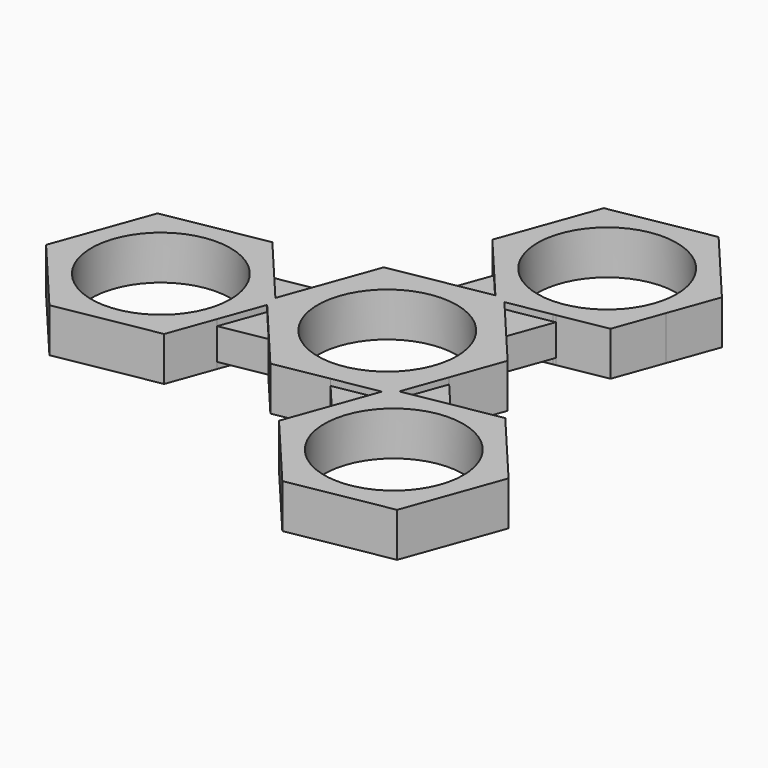
from build123d import *

# Parameters (mm, degrees)
F0_R     = 11.05
F1_DEPTH = 3.5
F2_DEPTH = 2.5


with BuildPart() as f1:
    # F0 (on Top) → F1 (new body, symmetric)
    with BuildSketch(Plane.XY):
        with BuildLine():
            Line((16.4067340595, 45.3467654298), (8.4209065052, 43.9228967168))
            ThreePointArc((8.4209065052, 43.9228967168), (15.6672457553, 43.3028857057), (21.6327540042, 39.1427706216))
            Line((21.6327540042, 39.1427706216), (16.4067340595, 45.3467654298))
        make_face()
        with BuildLine():
            Line((0.4350802259, 42.4990282311), (-2.3247269809, 34.8711645999))
            ThreePointArc((-2.3247269809, 34.8711645999), (1.8353876304, 40.8366725376), (8.4209065052, 43.9228967168))
            Line((8.4209065052, 43.9228967168), (0.4350802259, 42.4990282311))
        make_face()
        with BuildLine():
            ThreePointArc((24.9371199001, 30.0910388701), (24.7259953173, 27.6645131258), (24.0989665638, 25.3109125396))
            Line((24.0989665638, 25.3109125396), (26.8587737337, 32.9387760688))
            Line((26.8587737337, 32.9387760688), (21.6327540042, 39.1427706216))
            ThreePointArc((21.6327540042, 39.1427706216), (24.0852004265, 34.9090436873), (24.9371199001, 30.0910388701))
        make_face()
        with BuildLine():
            Line((-5.0845339335, 27.2433016714), (-0.112226606, 21.3404981668))
            Line((-0.112226606, 21.3404981668), (-0.1100221461, 21.3465910994))
            ThreePointArc((-0.1100221461, 21.3465910994), (-2.9782076587, 27.8205341493), (-2.3247269809, 34.8711645999))
            Line((-2.3247269809, 34.8711645999), (-5.0845339335, 27.2433016714))
        make_face()
        with BuildLine():
            Line((13.7432325819, 16.334399733), (13.741028122, 16.3283068004))
            Line((13.741028122, 16.3283068004), (21.3391595743, 17.6830495091))
            Line((21.3391595743, 17.6830495091), (24.0989665638, 25.3109125396))
            ThreePointArc((24.0989665638, 25.3109125396), (20.0897974955, 19.474390384), (13.7432325819, 16.334399733))
        make_face()
        with BuildLine():
            Line((-0.112226606, 21.3404981668), (0.1414857049, 21.0393072268))
            ThreePointArc((0.1414857049, 21.0393072268), (0.0146461468, 21.1920605869), (-0.1100221461, 21.3465910994))
            Line((-0.1100221461, 21.3465910994), (-0.112226606, 21.3404981668))
        make_face()
        with BuildLine():
            ThreePointArc((13.7432325819, 16.334399733), (13.5485483413, 16.2954128005), (13.3533326046, 16.2591809003))
            Line((13.3533326046, 16.2591809003), (13.741028122, 16.3283068004))
            Line((13.741028122, 16.3283068004), (13.7432325819, 16.334399733))
        make_face()
        Polygon((18.5375268448, -10.5730579916), (11.3795390219, -11.8493233304), (10.9594646934, -13.0103717128), (9.743930135, -13.227100864), (7.2702144289, -20.064232828), (4.6443903041, -27.3217790413), (15.0964299783, -39.7297684023), (31.0680838119, -36.8820312036), (36.5876979713, -21.6263046439), (26.1356582971, -9.2183152829), align=None)
        with Locations((20.6160441377, -24.4740418426)):
            Circle(F0_R, mode=Mode.SUBTRACT)
        Polygon((-16.7470447626, -2.98598898), (-16.3269704341, -1.8249405976), (-21.0112425509, 3.7359260276), (-25.9835498784, 9.6387295322), (-41.955203712, 6.7909923335), (-47.4748178714, -8.4647342262), (-37.0227781972, -20.8727235872), (-21.0511243636, -18.0249863885), (-18.4253002388, -10.7674401752), (-15.9515845328, -3.9303082112), align=None)
        with Locations((-31.5031640378, -5.6169970275)):
            Circle(F0_R, mode=Mode.SUBTRACT)
        with BuildLine():
            ThreePointArc((0.1414857049, 21.0393072268), (2.850394978, 18.5665626335), (6.106993819, 16.8791921162))
            ThreePointArc((6.106993819, 16.8791921162), (9.6893501995, 16.092187212), (13.3533326046, 16.2591809003))
            ThreePointArc((13.3533326046, 16.2591809003), (13.5485483413, 16.2954128005), (13.7432325819, 16.334399733))
            ThreePointArc((13.7432325819, 16.334399733), (20.0897974955, 19.474390384), (24.0989665638, 25.3109125396))
            ThreePointArc((24.0989665638, 25.3109125396), (24.7259953173, 27.6645131258), (24.9371199001, 30.0910388701))
            ThreePointArc((24.9371199001, 30.0910388701), (24.0852004265, 34.9090436873), (21.6327540042, 39.1427706216))
            ThreePointArc((21.6327540042, 39.1427706216), (15.6672457553, 43.3028857057), (8.4209065052, 43.9228967168))
            ThreePointArc((8.4209065052, 43.9228967168), (1.8353876304, 40.8366725376), (-2.3247269809, 34.8711645999))
            ThreePointArc((-2.3247269809, 34.8711645999), (-2.9782076587, 27.8205341493), (-0.1100221461, 21.3465910994))
            ThreePointArc((-0.1100221461, 21.3465910994), (0.0146461468, 21.1920605869), (0.1414857049, 21.0393072268))
        make_face()
        with BuildLine():
            ThreePointArc((21.9371199001, 30.0910388701), (17.2337915702, 21.0454731767), (7.1276613096, 19.7002270103))
            ThreePointArc((7.1276613096, 19.7002270103), (4.5404482301, 39.1366045634), (21.9371199001, 30.0910388701))
        make_face(mode=Mode.SUBTRACT)
        Polygon((6.5830402991, 15.0520414616), (5.3675057407, 14.8353123104), (4.5720455108, 15.7796315416), (-2.5859423121, 14.5033662028), (-10.9594646934, 13.0103717128), (-13.853254728, 5.0121913664), (-16.3269704341, -1.8249405976), (-15.5315102042, -2.7692598288), (-15.9515845328, -3.9303082112), (-11.2673124159, -9.4911748364), (-5.7875800692, -15.9963606927), (2.5859423121, -14.5033662028), (9.743930135, -13.227100864), (10.1640044635, -12.0660524816), (11.3795390219, -11.8493233304), (13.853254728, -5.0121913664), (16.7470447626, 2.98598898), (11.2673124159, 9.4911748364), align=None)
        with BuildLine():
            ThreePointArc((3.7594585905, 10.3908118598), (9.0455656933, 6.3466716701), (11.05, 0))
            ThreePointArc((11.05, 0), (-9.0455656933, -6.3466716701), (3.7594585905, 10.3908118598))
        make_face(mode=Mode.SUBTRACT)
        with BuildLine():
            Line((6.106993819, 16.8791921162), (5.7875800692, 15.9963606927))
            Line((5.7875800692, 15.9963606927), (6.5830402991, 15.0520414616))
            Line((6.5830402991, 15.0520414616), (13.3533326046, 16.2591809003))
            ThreePointArc((13.3533326046, 16.2591809003), (9.6893501995, 16.092187212), (6.106993819, 16.8791921162))
        make_face()
        with BuildLine():
            Line((4.5720455108, 15.7796315416), (5.7875800692, 15.9963606927))
            Line((5.7875800692, 15.9963606927), (6.106993819, 16.8791921162))
            ThreePointArc((6.106993819, 16.8791921162), (2.850394978, 18.5665626335), (0.1414857049, 21.0393072268))
            Line((0.1414857049, 21.0393072268), (4.5720455108, 15.7796315416))
        make_face()
        Polygon((4.5720455108, 15.7796315416), (5.3675057407, 14.8353123104), (5.7875800692, 15.9963606927), align=None)
        Polygon((5.7875800692, 15.9963606927), (5.3675057407, 14.8353123104), (6.5830402991, 15.0520414616), align=None)
        Polygon((10.9594646934, -13.0103717128), (11.3795390219, -11.8493233304), (10.1640044635, -12.0660524816), (9.743930135, -13.227100864), align=None)
        Polygon((-15.5315102042, -2.7692598288), (-16.3269704341, -1.8249405976), (-16.7470447626, -2.98598898), (-15.9515845328, -3.9303082112), align=None)
    extrude(amount=F1_DEPTH, both=True)

    # F0 (on Top) → F2 (join, symmetric)
    with BuildSketch(Plane.XY):
        Polygon((-2.5859423121, 14.5033662028), (4.5720455108, 15.7796315416), (0.1414857049, 21.0393072268), (-0.112226606, 21.3404981668), align=None)
        Polygon((13.3533326046, 16.2591809003), (6.5830402991, 15.0520414616), (11.2673124159, 9.4911748364), (13.741028122, 16.3283068004), align=None)
        Polygon((18.5375268448, -10.5730579916), (13.853254728, -5.0121913664), (11.3795390219, -11.8493233304), align=None)
        Polygon((7.2702144289, -20.064232828), (9.743930135, -13.227100864), (2.5859423121, -14.5033662028), align=None)
        Polygon((-11.2673124159, -9.4911748364), (-15.9515845328, -3.9303082112), (-18.4253002388, -10.7674401752), align=None)
        Polygon((-16.3269704341, -1.8249405976), (-13.853254728, 5.0121913664), (-21.0112425509, 3.7359260276), align=None)
    extrude(amount=F2_DEPTH, both=True)


solid = f1.part
